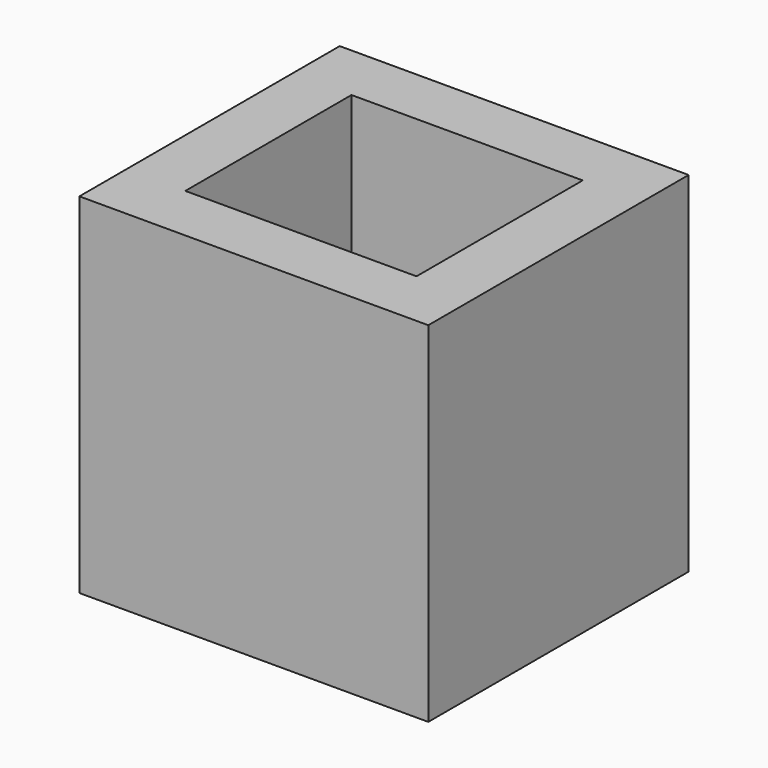
from build123d import *

# Parameters (mm, degrees)
F0_W     = 150.6082415581
F0_H     = 150.7464423776
F1_DEPTH = 140.462
F2_T     = -25.4
F3_DEPTH = 25.4


with BuildPart() as f1:
    # F0 (on Front) → F1 (new body)
    with BuildSketch(Plane.XZ):
        with Locations((0, -0.6814859807)):
            Rectangle(F0_W, F0_H)
    extrude(amount=F1_DEPTH)

    # F2
    f2_openings = [f1.faces().sort_by_distance(p)[0] for p in [
        (0, -70.231, 74.691735),
    ]]
    offset(amount=F2_T, openings=f2_openings)

    # F3 (add): a face of the model
    f3_faces = [f1.faces().sort_by_distance(p)[0] for p in [
        (0, -70.231, -50.6547071695),
    ]]
    extrude(f3_faces, amount=F3_DEPTH)


solid = f1.part
